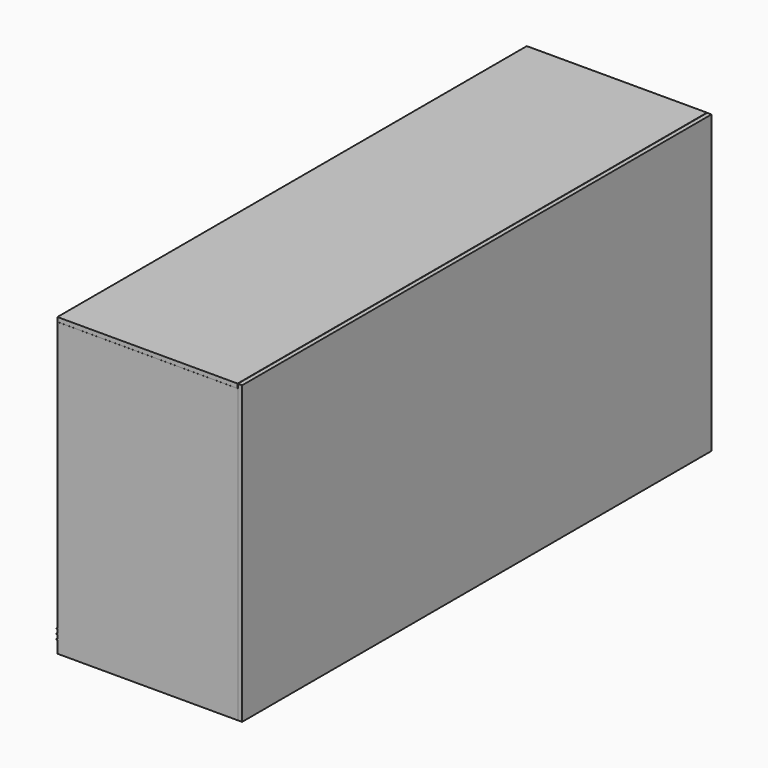
from build123d import *

# Parameters (mm, degrees)
F0_W      = 1050
F0_H      = 2000
F1_DEPTH  = 200
F2_SIZE   = 20
F3_W      = 1001.715728
F3_H      = 1951.715728
F4_DEPTH  = 120
F5_R      = 48.284271
F6_R      = 20
F7_W      = 973.405205
F7_H      = 1923.481565
F8_DEPTH  = 50
F9_R      = 10
F10_R     = 10
F11_W     = 1960
F11_H     = 5
F11_H_2   = 3
F12_DEPTH = 5
F13_W     = 1050
F13_H     = 1300
F14_DEPTH = 200
F15_W     = 1050
F15_H     = 1300
F16_DEPTH = 1500
F17_W     = 610
F17_H     = 1480
F17_W_2   = 630
F18_DEPTH = 1019
F19_W     = 1320
F19_H     = 5
F19_H_2   = 6
F20_DEPTH = 5
F21_W     = 1061.661
F21_H     = 1222
F22_DEPTH = 1700
F23_W     = 35.6673
F23_H     = 1700
F23_W_2   = 39.648295
F24_DEPTH = 95
F25_R     = 17.675131
F25_R_2   = 26.491418
F25_R_3   = 28.49172
F25_R_4   = 25.461441
F25_R_5   = 22.122268
F25_R_6   = 26.790347
F25_R_7   = 26.844984
F25_R_8   = 29.855992
F25_R_9   = 34.523428
F25_R_10  = 18.483208
F25_R_11  = 24.436563
F25_R_12  = 26.49164
F25_R_13  = 18.371691
F25_R_14  = 19.135028
F25_R_15  = 20
F26_DEPTH = 365
F27_W     = 1048.552871
F27_H     = 4499.781487
F28_DEPTH = 25
F29_W     = 4499.939489
F29_H     = 1724.511504
F30_DEPTH = 25
F31_W     = 1255.993739
F31_H     = 1847.933241
F32_DEPTH = 1180
F33_R     = 27.247756
F34_DEPTH = 1280
F35_W     = 1019
F35_H     = 21.559715
F36_DEPTH = 1272
F37_W     = 1019
F37_H     = 20.960152
F38_DEPTH = 1280


with BuildPart() as f1:
    # F0 (on Top) → F1 (new body)
    with BuildSketch(Plane.XY):
        with Locations((525, 1000)):
            Rectangle(F0_W, F0_H)
    extrude(amount=F1_DEPTH)

    # F2
    f2_edges = [f1.edges().sort_by_distance(p)[0] for p in [
        (1050, 2000, 100),
        (0, 2000, 100),
    ]]
    chamfer(f2_edges, length=F2_SIZE)

    # F3 (on face) → F4 (join)
    with BuildSketch(Plane.XY.offset(200)):
        with Locations((525, 1000)):
            Rectangle(F3_W, F3_H)
    extrude(amount=F4_DEPTH)

    # F5
    f5_edges = [f1.edges().sort_by_distance(p)[0] for p in [
        (1025.857864, 24.142136, 260),
        (1025.857864, 1975.857864, 260),
        (24.142136, 1975.857864, 260),
        (24.142136, 24.142136, 260),
    ]]
    fillet(f5_edges, radius=F5_R)

    # F6
    f6_edges = [f1.edges().sort_by_distance(p)[0] for p in [
        (525, 24.142136, 320),
        (38.284271, 38.284271, 320),
        (1011.715729, 38.284271, 320),
        (24.142136, 1000, 320),
        (1025.857864, 1000, 320),
        (38.284271, 1961.715729, 320),
        (1011.715729, 1961.715729, 320),
        (525, 1975.857864, 320),
    ]]
    fillet(f6_edges, radius=F6_R)

    # F7 (on face) → F8 (join)
    with BuildSketch(Plane.XY.offset(320)):
        with Locations((524.978477, 999.989578)):
            Rectangle(F7_W, F7_H)
    extrude(amount=F8_DEPTH)

    # F9
    f9_edges = [f1.edges().sort_by_distance(p)[0] for p in [
        (1011.68108, 38.248796, 345),
        (1011.68108, 1961.730361, 345),
        (38.275875, 1961.730361, 345),
        (38.275875, 38.248796, 345),
    ]]
    fillet(f9_edges, radius=F9_R)

    # F10
    f10_edges = [f1.edges().sort_by_distance(p)[0] for p in [
        (524.978478, 1961.730361, 370),
        (1008.752148, 1958.801429, 370),
        (41.204807, 1958.801429, 370),
        (1011.68108, 999.989579, 370),
        (38.275875, 999.989579, 370),
        (1008.752148, 41.177728, 370),
        (41.204807, 41.177728, 370),
        (524.978478, 38.248796, 370),
    ]]
    fillet(f10_edges, radius=F10_R)

    # F11 (on face) → F12 (join)
    with BuildSketch(Plane(origin=(0, 0, 0), x_dir=(0, -1, 0), z_dir=(-1, 0, 0))):
        with Locations((-1000, 72.5)):
            Rectangle(F11_W, F11_H)
        with Locations((-1000, 127.5)):
            Rectangle(F11_W, F11_H)
        with Locations((-1000, 98.5)):
            Rectangle(F11_W, F11_H_2)
        with Locations((-1000, 101.5)):
            Rectangle(F11_W, F11_H_2)
    extrude(amount=F12_DEPTH)

    # F13 (on Top) → F14 (join)
    with BuildSketch(Plane.XY):
        with Locations((525, -650)):
            Rectangle(F13_W, F13_H)
    extrude(amount=F14_DEPTH)

    # F15 (on face) → F16 (join)
    with BuildSketch(Plane.XY.offset(200)):
        with Locations((525, -650)):
            Rectangle(F15_W, F15_H)
    extrude(amount=F16_DEPTH)

    # F17 (on face) → F18 (cut)
    with BuildSketch(Plane(origin=(0, 0, 0), x_dir=(0, -1, 0), z_dir=(-1, 0, 0))):
        with Locations((975, 940)):
            Rectangle(F17_W, F17_H)
        with Locations((335, 940)):
            Rectangle(F17_W_2, F17_H)
    extrude(amount=-F18_DEPTH, mode=Mode.SUBTRACT)

    # F19 (on face) → F20 (join)
    with BuildSketch(Plane(origin=(0, 0, 0), x_dir=(0, -1, 0), z_dir=(-1, 0, 0))):
        with Locations((640, 127.5)):
            Rectangle(F19_W, F19_H)
        with Locations((640, 100)):
            Rectangle(F19_W, F19_H_2)
        with Locations((640, 72.5)):
            Rectangle(F19_W, F19_H)
    extrude(amount=F20_DEPTH)

    # F21 (on Top) → F22 (join)
    with BuildSketch(Plane.XY):
        with Locations((530.8305, 2589.135705)):
            Rectangle(F21_W, F21_H)
    extrude(amount=F22_DEPTH)

    # F23 (on face) → F24 (join)
    with BuildSketch(Plane(origin=(0, 3200.135705, 0), x_dir=(-1, 0, 0), z_dir=(0, 1, 0))):
        with Locations((-305.102706, 850)):
            Rectangle(F23_W, F23_H)
        with Locations((-695.655286, 850)):
            Rectangle(F23_W_2, F23_H)
    extrude(amount=F24_DEPTH)

    # F25 (on face) → F26 (join)
    with BuildSketch(Plane(origin=(675.831139, 0, 0), x_dir=(0, -1, 0), z_dir=(-1, 0, 0))):
        with Locations((-3252.88574, 135.192228)):
            Circle(F25_R)
        with Locations((-3254.491696, 222.675777)):
            Circle(F25_R_2)
        with Locations((-3248.258108, 335.374969)):
            Circle(F25_R_3)
        with Locations((-3249.734309, 494.146231)):
            Circle(F25_R_4)
        with Locations((-3252.811319, 419.299844)):
            Circle(F25_R_5)
        with Locations((-3253.401542, 580.157127)):
            Circle(F25_R_6)
        with Locations((-3251.752263, 678.684019)):
            Circle(F25_R_7)
        with Locations((-3255.381964, 785.062628)):
            Circle(F25_R_8)
        with Locations((-3254.409769, 915.7977)):
            Circle(F25_R_9)
        with Locations((-3239.505991, 1025.246616)):
            Circle(F25_R_10)
        with Locations((-3245.394067, 1183.771719)):
            Circle(F25_R_11)
        with Locations((-3251.762343, 1320.886005)):
            Circle(F25_R_12)
        with Locations((-3255.527804, 1433.706561)):
            Circle(F25_R_13)
        with Locations((-3246.574513, 1505.486339)):
            Circle(F25_R_14)
        with Locations((-3261.742305, 1574.563252)):
            Circle(F25_R_15)
    extrude(amount=F26_DEPTH)

    # F27 (on face) → F28 (join)
    with BuildSketch(Plane.XY.offset(1700)):
        with Locations((524.276435, 950.244961)):
            Rectangle(F27_W, F27_H)
    extrude(amount=F28_DEPTH)

    # F29 (on face) → F30 (join)
    with BuildSketch(Plane.YZ.offset(1050)):
        with Locations((949.969744, 862.255752)):
            Rectangle(F29_W, F29_H)
    extrude(amount=F30_DEPTH)

    # F31 (on face) → F32 (cut)
    with BuildSketch(Plane(origin=(0, 3295.135705, 0), x_dir=(-1, 0, 0), z_dir=(0, 1, 0))):
        with Locations((-495.492868, 829.507138)):
            Rectangle(F31_W, F31_H)
    extrude(amount=-F32_DEPTH, mode=Mode.SUBTRACT)

    # F33 (on face) → F34 (join)
    with BuildSketch(Plane(origin=(0, -1280, 0), x_dir=(-1, 0, 0), z_dir=(0, 1, 0))):
        with Locations((-550.316572, 1511.452079)):
            Circle(F33_R)
    extrude(amount=F34_DEPTH)

    # F35 (on face) → F36 (join)
    with BuildSketch(Plane(origin=(0, -1280, 0), x_dir=(-1, 0, 0), z_dir=(0, 1, 0))):
        with Locations((-509.5, 443.162262)):
            Rectangle(F35_W, F35_H)
    extrude(amount=F36_DEPTH)

    # F37 (on face) → F38 (join)
    with BuildSketch(Plane(origin=(0, -1280, 0), x_dir=(-1, 0, 0), z_dir=(0, 1, 0))):
        with Locations((-509.5, 905.730277)):
            Rectangle(F37_W, F37_H)
    extrude(amount=F38_DEPTH)


solid = f1.part
